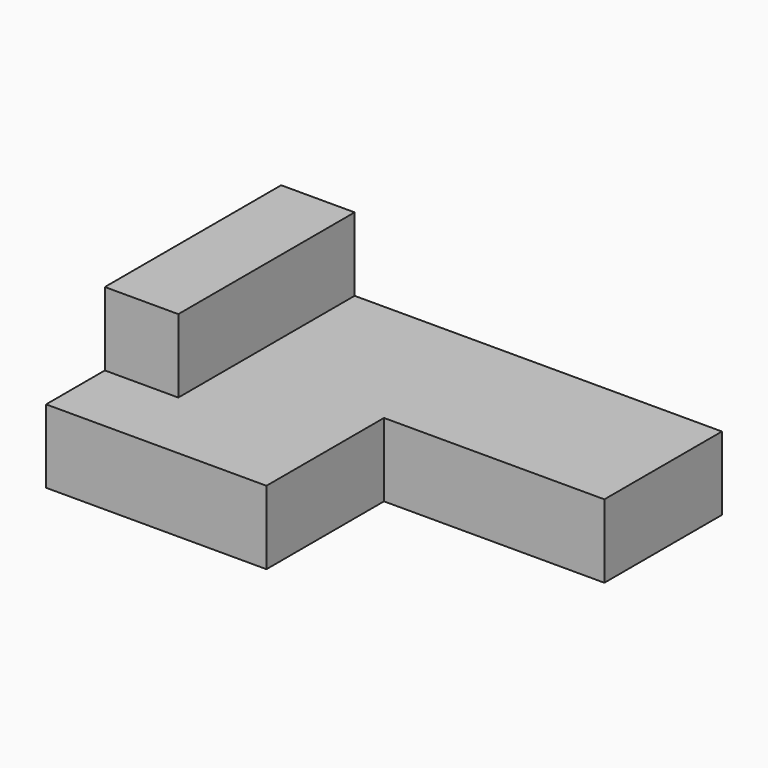
from build123d import *

# Parameters (mm, degrees)
F1_DEPTH = 25.4
F2_W     = 76.2
F2_H     = 25.4
F3_DEPTH = 25.4


with BuildPart() as f1:
    # F0 (on Top) → F1 (new body)
    with BuildSketch(Plane.XY):
        Polygon((6.331483, 90.70692), (-146.068517, 90.70692), (-146.068517, -10.89308), (-69.868517, -10.89308), (-69.868517, 39.90692), (6.331483, 39.90692), align=None)
    extrude(amount=F1_DEPTH)

    # F2 (on face) → F3 (join)
    with BuildSketch(Plane(origin=(-146.068517, 0, 0), x_dir=(0, -1, 0), z_dir=(-1, 0, 0))):
        with Locations((-52.60692, 38.1)):
            Rectangle(F2_W, F2_H)
    extrude(amount=-F3_DEPTH)


solid = f1.part
